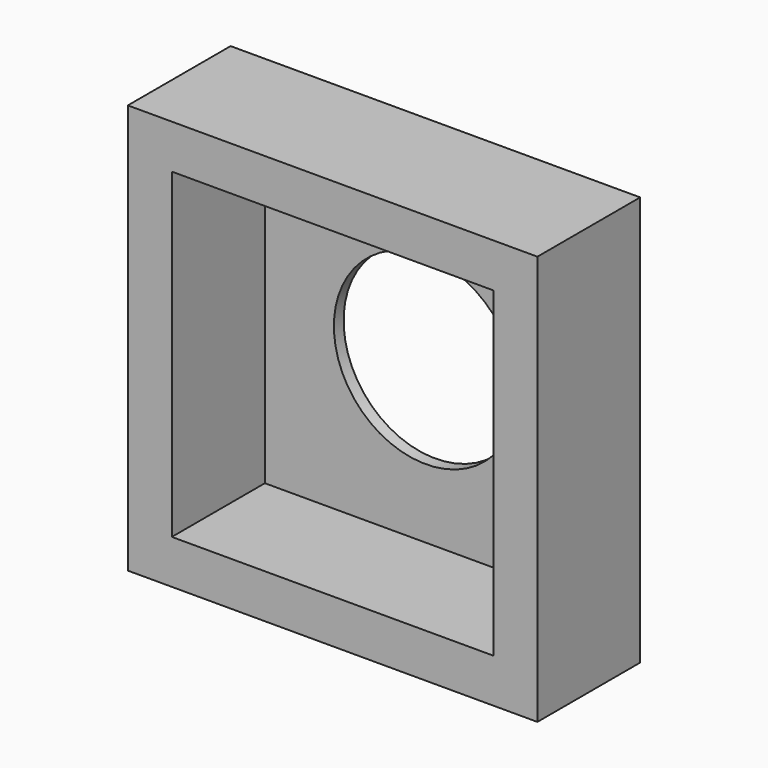
from build123d import *

# Parameters (mm, degrees)
F0_W     = 205.74
F0_H     = 205.74
F0_R     = 46.101
F1_DEPTH = 64.516
F2_W     = 161.544
F2_H     = 161.544
F2_R     = 46.101
F3_DEPTH = 58.42


with BuildPart() as f1:
    # F0 (on Front) → F1 (new body)
    with BuildSketch(Plane.XZ):
        with Locations((-59.400756, -2.085568)):
            Rectangle(F0_W, F0_H)
        with Locations((-59.400756, -2.085568)):
            Circle(F0_R, mode=Mode.SUBTRACT)
    extrude(amount=F1_DEPTH)

    # F2 (on face) → F3 (cut)
    with BuildSketch(Plane.XZ.offset(64.516)):
        with Locations((-59.400756, -2.085568)):
            Rectangle(F2_W, F2_H)
        with Locations((-59.400756, -2.085568)):
            Circle(F2_R, mode=Mode.SUBTRACT)
    extrude(amount=-F3_DEPTH, mode=Mode.SUBTRACT)


solid = f1.part
